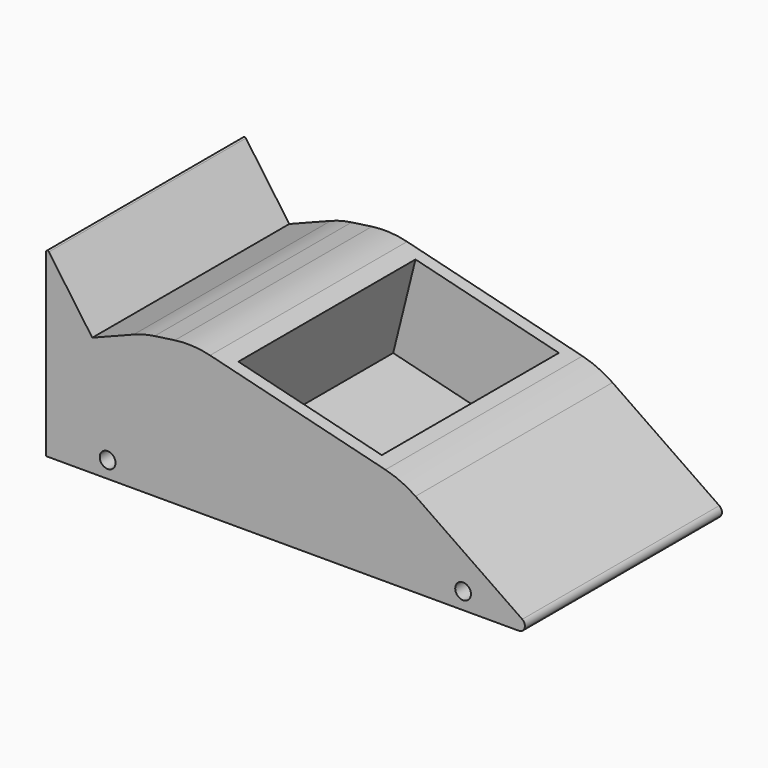
from build123d import *

# Parameters (mm, degrees)
F1_DEPTH = 50.8
F2_R     = 19.05
F3_R     = 1.27
F4_W     = 30.48
F4_H     = 45.66285
F5_DEPTH = 19.05
F7_D     = 3.2512
F8_R     = 0.3175


with BuildPart() as f1:
    # F0 (on Front) → F1 (new body)
    with BuildSketch(Plane.XZ):
        Polygon((0, 38.1), (0, 0), (101.6, 0), (73.369475, 19.463853), (30.235227, 30.198802), (20.174297, 28.783426), (9.532238, 24.613116), align=None)
    extrude(amount=F1_DEPTH)

    # F2
    f2_edges = [f1.edges().sort_by_distance(p)[0] for p in [
        (30.235227, -25.4, 30.198802),
        (73.369475, -25.4, 19.463853),
        (20.174297, -25.4, 28.783426),
    ]]
    fillet(f2_edges, radius=F2_R)

    # F3
    f3_edges = [f1.edges().sort_by_distance(p)[0] for p in [
        (101.6, -25.4, 0),
    ]]
    fillet(f3_edges, radius=F3_R)

    # F4 (on face) → F5 (cut)
    with BuildSketch(Plane(origin=(8.84079, 0, 35.5233), x_dir=(0.970399, 0, -0.241506), z_dir=(0.241506, 0, 0.970399))):
        with Locations((44.906641, -25.403175)):
            Rectangle(F4_W, F4_H)
    extrude(amount=-F5_DEPTH, mode=Mode.SUBTRACT)

    # F7 (through all)
    with Locations(Plane.XZ.offset(50.8)):
        with Locations((12.7, 3.429), (86.033185, 3.429)):
            Hole(F7_D / 2)

    # F8
    f8_edges = [f1.edges().sort_by_distance(p)[0] for p in [
        (0, -25.4, 38.1),
    ]]
    fillet(f8_edges, radius=F8_R)


solid = f1.part
